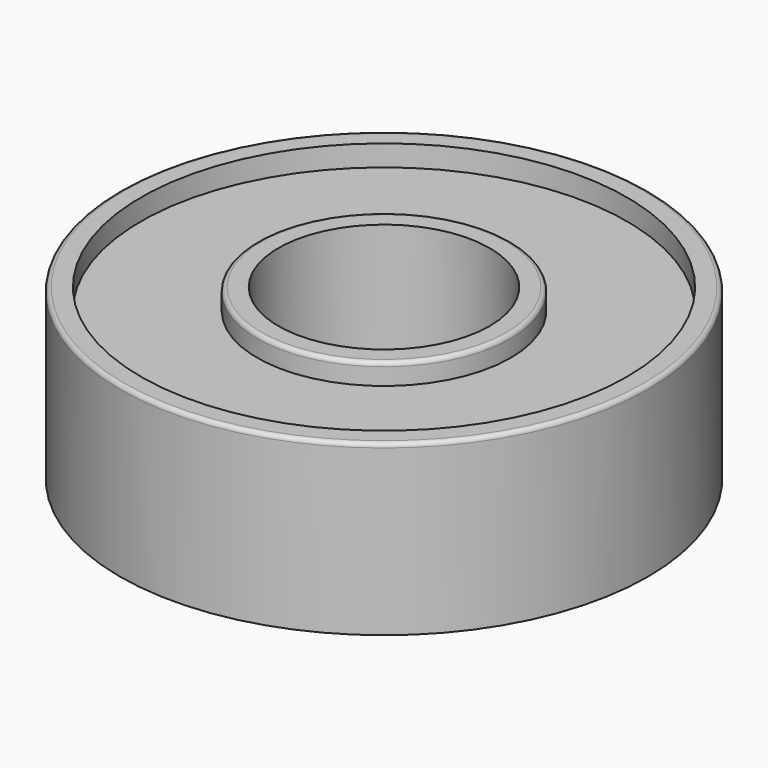
from build123d import *

# Parameters (mm, degrees)
F0_R     = 12.5
F1_DEPTH = 8
F2_R     = 5
F3_DEPTH = 8.001
F4_R     = 11.5
F4_R_2   = 6
F5_DEPTH = 1
F6_R     = 11.5
F6_R_2   = 6
F7_DEPTH = 1
F8_R     = 0.2


with BuildPart() as f1:
    # F0 (on Top) → F1 (new body)
    with BuildSketch(Plane.XY):
        Circle(F0_R)
    extrude(amount=F1_DEPTH)

    # F2 (on face) → F3 (cut, through all)
    with BuildSketch(Plane.XY.offset(8)):
        Circle(F2_R)
    extrude(amount=-F3_DEPTH, mode=Mode.SUBTRACT)

    # F4 (on face) → F5 (cut)
    with BuildSketch(Plane.XY.offset(8)):
        Circle(F4_R)
        Circle(F4_R_2, mode=Mode.SUBTRACT)
    extrude(amount=-F5_DEPTH, mode=Mode.SUBTRACT)

    # F6 (on face) → F7 (cut)
    with BuildSketch(Plane(origin=(0, 0, 0), x_dir=(1, 0, 0), z_dir=(0, 0, -1))):
        Circle(F6_R)
        Circle(F6_R_2, mode=Mode.SUBTRACT)
    extrude(amount=-F7_DEPTH, mode=Mode.SUBTRACT)

    # F8
    f8_edges = [f1.edges().sort_by_distance(p)[0] for p in [
        (-12.5, 0, 8),
        (-6, 0, 8),
        (-6, 0, 0),
    ]]
    fillet(f8_edges, radius=F8_R)


solid = f1.part
